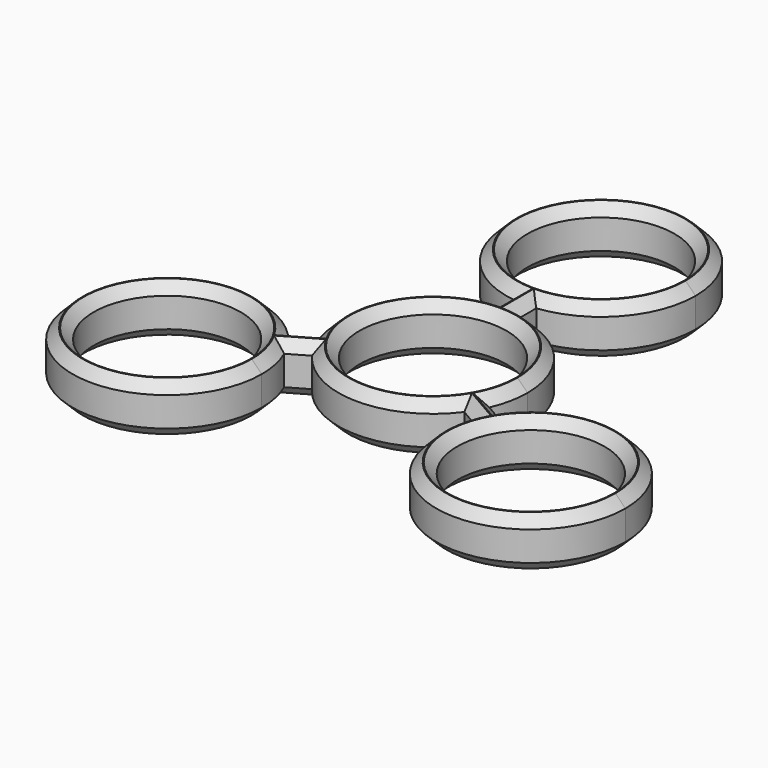
from build123d import *

# Parameters (mm, degrees)
F0_R     = 11.125
F1_DEPTH = 7.5
F2_SIZE  = 1.524


with BuildPart() as f1:
    # F0 (on Top) → F1 (new body)
    with BuildSketch(Plane.XY):
        with BuildLine():
            ThreePointArc((13.1013648304, -5.7309894069), (13.9971339401, -2.9274974745), (14.3, 0))
            ThreePointArc((14.3, 0), (10.6581248351, 9.5338541524), (1.5875, 14.2116094708))
            Line((1.5875, 14.2116094708), (1.5875, 12.7125))
            Line((1.5875, 12.7125), (-1.5875, 12.7125))
            Line((-1.5875, 12.7125), (-1.5875, 14.2116094708))
            ThreePointArc((-1.5875, 14.2116094708), (-12.3841632741, 7.15), (-13.1013648304, -5.7309894069))
            Line((-13.1013648304, -5.7309894069), (-11.8030979456, -4.9814346715))
            Line((-11.8030979456, -4.9814346715), (-10.2155979456, -7.7310653285))
            Line((-10.2155979456, -7.7310653285), (-11.5138648304, -8.4806200639))
            ThreePointArc((-11.5138648304, -8.4806200639), (0, -14.3), (11.5138648304, -8.4806200639))
            Line((11.5138648304, -8.4806200639), (10.2155979456, -7.7310653285))
            Line((10.2155979456, -7.7310653285), (11.8030979456, -4.9814346715))
            Line((11.8030979456, -4.9814346715), (13.1013648304, -5.7309894069))
        make_face()
        Circle(F0_R, mode=Mode.SUBTRACT)
        with BuildLine():
            Line((1.5875, 12.7125), (1.5875, 14.2116094708))
            ThreePointArc((1.5875, 14.2116094708), (0, 14.3), (-1.5875, 14.2116094708))
            Line((-1.5875, 14.2116094708), (-1.5875, 12.7125))
            Line((-1.5875, 12.7125), (1.5875, 12.7125))
        make_face()
        with BuildLine():
            ThreePointArc((-1.5875, 14.2116094708), (0, 14.3), (1.5875, 14.2116094708))
            Line((1.5875, 14.2116094708), (1.5875, 17.5383905292))
            ThreePointArc((1.5875, 17.5383905292), (0, 17.45), (-1.5875, 17.5383905292))
            Line((-1.5875, 17.5383905292), (-1.5875, 14.2116094708))
        make_face()
        with BuildLine():
            Line((15.9824417398, -7.3943799361), (13.1013648304, -5.7309894069))
            ThreePointArc((13.1013648304, -5.7309894069), (12.3841632741, -7.15), (11.5138648304, -8.4806200639))
            Line((11.5138648304, -8.4806200639), (14.3949417398, -10.1440105931))
            ThreePointArc((14.3949417398, -10.1440105931), (15.112143296, -8.725), (15.9824417398, -7.3943799361))
        make_face()
        with BuildLine():
            ThreePointArc((11.5138648304, -8.4806200639), (12.3841632741, -7.15), (13.1013648304, -5.7309894069))
            Line((13.1013648304, -5.7309894069), (11.8030979456, -4.9814346715))
            Line((11.8030979456, -4.9814346715), (10.2155979456, -7.7310653285))
            Line((10.2155979456, -7.7310653285), (11.5138648304, -8.4806200639))
        make_face()
        with BuildLine():
            Line((1.5875, 19.0375), (1.5875, 17.5383905292))
            ThreePointArc((1.5875, 17.5383905292), (10.6581248351, 22.2161458476), (14.3, 31.75))
            ThreePointArc((14.3, 31.75), (-9.5338541524, 42.4081248351), (-1.5875, 17.5383905292))
            Line((-1.5875, 17.5383905292), (-1.5875, 19.0375))
            Line((-1.5875, 19.0375), (1.5875, 19.0375))
        make_face()
        with Locations((0, 31.75)):
            Circle(F0_R, mode=Mode.SUBTRACT)
        with BuildLine():
            ThreePointArc((-1.5875, 17.5383905292), (0, 17.45), (1.5875, 17.5383905292))
            Line((1.5875, 17.5383905292), (1.5875, 19.0375))
            Line((1.5875, 19.0375), (-1.5875, 19.0375))
            Line((-1.5875, 19.0375), (-1.5875, 17.5383905292))
        make_face()
        with BuildLine():
            Line((17.2807086245, -8.1439346715), (15.9824417398, -7.3943799361))
            ThreePointArc((15.9824417398, -7.3943799361), (15.112143296, -8.725), (14.3949417398, -10.1440105931))
            Line((14.3949417398, -10.1440105931), (15.6932086245, -10.8935653285))
            Line((15.6932086245, -10.8935653285), (17.2807086245, -8.1439346715))
        make_face()
        with BuildLine():
            ThreePointArc((41.7963065702, -15.875), (31.9595863578, -2.2893776905), (15.9824417398, -7.3943799361))
            Line((15.9824417398, -7.3943799361), (17.2807086245, -8.1439346715))
            Line((17.2807086245, -8.1439346715), (15.6932086245, -10.8935653285))
            Line((15.6932086245, -10.8935653285), (14.3949417398, -10.1440105931))
            ThreePointArc((14.3949417398, -10.1440105931), (24.5688090957, -29.8721339401), (41.7963065702, -15.875))
        make_face()
        with Locations((27.4963065702, -15.875)):
            Circle(F0_R, mode=Mode.SUBTRACT)
        with BuildLine():
            Line((-11.8030979456, -4.9814346715), (-13.1013648304, -5.7309894069))
            ThreePointArc((-13.1013648304, -5.7309894069), (-12.3841632741, -7.15), (-11.5138648304, -8.4806200639))
            Line((-11.5138648304, -8.4806200639), (-10.2155979456, -7.7310653285))
            Line((-10.2155979456, -7.7310653285), (-11.8030979456, -4.9814346715))
        make_face()
        with BuildLine():
            ThreePointArc((-11.5138648304, -8.4806200639), (-12.3841632741, -7.15), (-13.1013648304, -5.7309894069))
            Line((-13.1013648304, -5.7309894069), (-15.9824417398, -7.3943799361))
            ThreePointArc((-15.9824417398, -7.3943799361), (-15.112143296, -8.725), (-14.3949417398, -10.1440105931))
            Line((-14.3949417398, -10.1440105931), (-11.5138648304, -8.4806200639))
        make_face()
        with BuildLine():
            Line((-17.2807086245, -8.1439346715), (-15.9824417398, -7.3943799361))
            ThreePointArc((-15.9824417398, -7.3943799361), (-41.0819288797, -20.3382797877), (-13.1963065702, -15.875))
            ThreePointArc((-13.1963065702, -15.875), (-13.4991726301, -12.9475025255), (-14.3949417398, -10.1440105931))
            Line((-14.3949417398, -10.1440105931), (-15.6932086245, -10.8935653285))
            Line((-15.6932086245, -10.8935653285), (-17.2807086245, -8.1439346715))
        make_face()
        with Locations((-27.4963065702, -15.875)):
            Circle(F0_R, mode=Mode.SUBTRACT)
        with BuildLine():
            ThreePointArc((-14.3949417398, -10.1440105931), (-15.112143296, -8.725), (-15.9824417398, -7.3943799361))
            Line((-15.9824417398, -7.3943799361), (-17.2807086245, -8.1439346715))
            Line((-17.2807086245, -8.1439346715), (-15.6932086245, -10.8935653285))
            Line((-15.6932086245, -10.8935653285), (-14.3949417398, -10.1440105931))
        make_face()
    extrude(amount=F1_DEPTH)

    # F2
    f2_edges = [f1.edges().sort_by_distance(p)[0] for p in [
        (12.384163, 7.15, 7.5),
        (1.5875, 15.875, 7.5),
        (0, 46.05, 7.5),
        (-1.5875, 15.875, 7.5),
        (-12.384163, 7.15, 7.5),
        (-14.541903, -6.562685, 7.5),
        (-39.88047, -23.025, 7.5),
        (-12.954403, -9.312315, 7.5),
        (0, -14.3, 7.5),
        (12.954403, -9.312315, 7.5),
        (39.88047, -23.025, 7.5),
        (14.541903, -6.562685, 7.5),
        (-11.125, 0, 7.5),
        (-11.125, 31.75, 7.5),
        (16.371307, -15.875, 7.5),
        (-38.621307, -15.875, 7.5),
        (12.384163, 7.15, 0),
        (1.5875, 15.875, 0),
        (0, 46.05, 0),
        (-1.5875, 15.875, 0),
        (-12.384163, 7.15, 0),
        (-14.541903, -6.562685, 0),
        (-39.88047, -23.025, 0),
        (-12.954403, -9.312315, 0),
        (0, -14.3, 0),
        (12.954403, -9.312315, 0),
        (39.88047, -23.025, 0),
        (14.541903, -6.562685, 0),
        (-11.125, 0, 0),
        (-11.125, 31.75, 0),
        (16.371307, -15.875, 0),
        (-38.621307, -15.875, 0),
    ]]
    chamfer(f2_edges, length=F2_SIZE)


solid = f1.part
